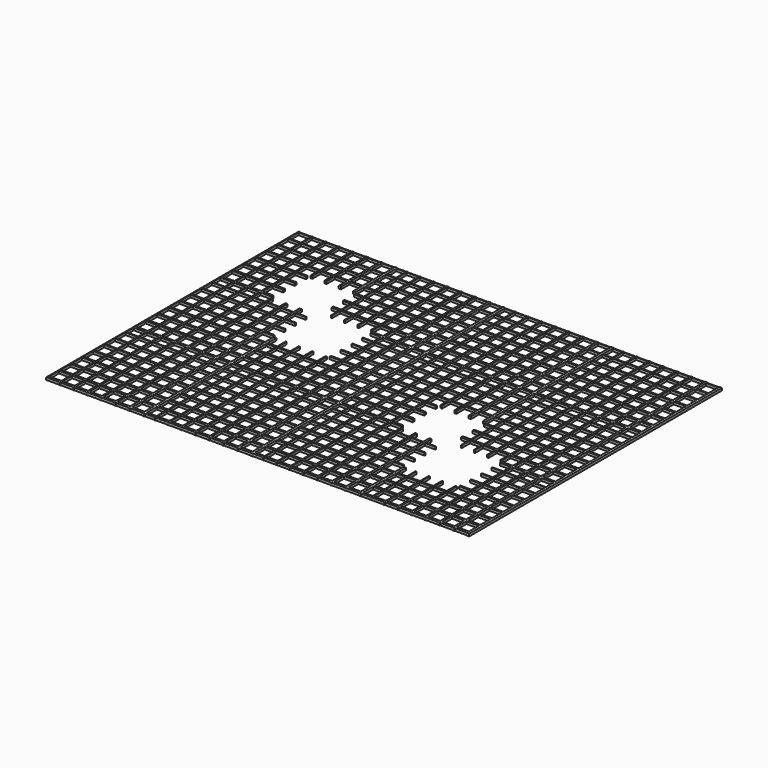
from build123d import *

# Parameters (mm, degrees)
F0_W     = 0.7
F0_H     = 260
F0_W_2   = 0.9
F0_W_3   = 1.1
F0_W_4   = 1.3
F0_W_5   = 1.5
F0_W_6   = 1.7
F0_W_7   = 1.9
F0_W_8   = 2.1
F1_DEPTH = 2
F2_W     = 347.386362
F2_H     = 0.7
F2_H_2   = 0.9
F2_H_3   = 1.1
F2_H_4   = 1.3
F2_H_5   = 1.5
F2_H_6   = 1.7
F2_H_7   = 1.9
F2_H_8   = 2.1
F3_DEPTH = 2
F5_DEPTH = 25


with BuildPart() as f1:
    # F0 (on Top) → F1 (new body)
    with BuildSketch(Plane.XY):
        with Locations((-169.090858, 6.351095)):
            Rectangle(F0_W, F0_H)
        with Locations((-158.290858, 6.351095)):
            Rectangle(F0_W_2, F0_H)
        with Locations((-147.290858, 6.351095)):
            Rectangle(F0_W_3, F0_H)
        with Locations((-136.090858, 6.351095)):
            Rectangle(F0_W_4, F0_H)
        with Locations((-124.690858, 6.351095)):
            Rectangle(F0_W_5, F0_H)
        with Locations((-113.090858, 6.351095)):
            Rectangle(F0_W_6, F0_H)
        with Locations((-101.290858, 6.351095)):
            Rectangle(F0_W_7, F0_H)
        with Locations((-89.290858, 6.351095)):
            Rectangle(F0_W_8, F0_H)
        with Locations((-69.290858, 6.351095)):
            Rectangle(F0_W_2, F0_H)
        with Locations((-12.290858, 6.351095)):
            Rectangle(F0_W_7, F0_H)
        with Locations((-58.290858, 6.351095)):
            Rectangle(F0_W_3, F0_H)
        with Locations((-80.090858, 6.351095)):
            Rectangle(F0_W, F0_H)
        with Locations((-0.290858, 6.351095)):
            Rectangle(F0_W_8, F0_H)
        with Locations((-24.090858, 6.351095)):
            Rectangle(F0_W_6, F0_H)
        with Locations((-35.690858, 6.351095)):
            Rectangle(F0_W_5, F0_H)
        with Locations((-47.090858, 6.351095)):
            Rectangle(F0_W_4, F0_H)
        with Locations((19.709142, 6.351095)):
            Rectangle(F0_W_2, F0_H)
        with Locations((76.709142, 6.351095)):
            Rectangle(F0_W_7, F0_H)
        with Locations((30.709142, 6.351095)):
            Rectangle(F0_W_3, F0_H)
        with Locations((8.909142, 6.351095)):
            Rectangle(F0_W, F0_H)
        with Locations((88.709142, 6.351095)):
            Rectangle(F0_W_8, F0_H)
        with Locations((64.909142, 6.351095)):
            Rectangle(F0_W_6, F0_H)
        with Locations((53.309142, 6.351095)):
            Rectangle(F0_W_5, F0_H)
        with Locations((41.909142, 6.351095)):
            Rectangle(F0_W_4, F0_H)
        with Locations((108.709142, 6.351095)):
            Rectangle(F0_W_2, F0_H)
        with Locations((165.709142, 6.351095)):
            Rectangle(F0_W_7, F0_H)
        with Locations((119.709142, 6.351095)):
            Rectangle(F0_W_3, F0_H)
        with Locations((97.909142, 6.351095)):
            Rectangle(F0_W, F0_H)
        with Locations((177.709142, 6.351095)):
            Rectangle(F0_W_8, F0_H)
        with Locations((153.909142, 6.351095)):
            Rectangle(F0_W_6, F0_H)
        with Locations((142.309142, 6.351095)):
            Rectangle(F0_W_5, F0_H)
        with Locations((130.909142, 6.351095)):
            Rectangle(F0_W_4, F0_H)
    extrude(amount=F1_DEPTH)

    # F2 (on Top) → F3 (join)
    with BuildSketch(Plane.XY):
        with Locations((4.597864, 135.510106)):
            Rectangle(F2_W, F2_H)
        with Locations((4.597864, 124.710106)):
            Rectangle(F2_W, F2_H_2)
        with Locations((4.597864, 113.710106)):
            Rectangle(F2_W, F2_H_3)
        with Locations((4.597864, 102.510106)):
            Rectangle(F2_W, F2_H_4)
        with Locations((4.597864, 91.110106)):
            Rectangle(F2_W, F2_H_5)
        with Locations((4.597864, 79.510106)):
            Rectangle(F2_W, F2_H_6)
        with Locations((4.597864, 67.710106)):
            Rectangle(F2_W, F2_H_7)
        with Locations((4.597864, 55.710106)):
            Rectangle(F2_W, F2_H_8)
        with Locations((4.597864, 35.710106)):
            Rectangle(F2_W, F2_H_2)
        with Locations((4.597864, -21.289894)):
            Rectangle(F2_W, F2_H_7)
        with Locations((4.597864, 24.710106)):
            Rectangle(F2_W, F2_H_3)
        with Locations((4.597864, 46.510106)):
            Rectangle(F2_W, F2_H)
        with Locations((4.597864, -33.289894)):
            Rectangle(F2_W, F2_H_8)
        with Locations((4.597864, -9.489894)):
            Rectangle(F2_W, F2_H_6)
        with Locations((4.597864, 2.110106)):
            Rectangle(F2_W, F2_H_5)
        with Locations((4.597864, 13.510106)):
            Rectangle(F2_W, F2_H_4)
        with Locations((4.597864, -53.289894)):
            Rectangle(F2_W, F2_H_2)
        with Locations((4.597864, -110.289894)):
            Rectangle(F2_W, F2_H_7)
        with Locations((4.597864, -64.289894)):
            Rectangle(F2_W, F2_H_3)
        with Locations((4.597864, -42.489894)):
            Rectangle(F2_W, F2_H)
        with Locations((4.597864, -122.289894)):
            Rectangle(F2_W, F2_H_8)
        with Locations((4.597864, -98.489894)):
            Rectangle(F2_W, F2_H_6)
        with Locations((4.597864, -86.889894)):
            Rectangle(F2_W, F2_H_5)
        with Locations((4.597864, -75.489894)):
            Rectangle(F2_W, F2_H_4)
    extrude(amount=F3_DEPTH)

    # F4 (on Top) → F5 (cut)
    with BuildSketch(Plane.XY):
        Polygon((-87.044187, 93.347527), (-126.64704, 93.347527), (-126.64704, 53.095445), (-91.58878, 53.095445), (-91.58878, 11.742193), (-45.231022, 11.742193), (-45.231022, 58.289263), (-87.044187, 58.289263), align=None)
        Polygon((90.745758, 4.399575), (51.142905, 4.399575), (51.142905, -35.852507), (86.201165, -35.852507), (86.201165, -77.205759), (132.558923, -77.205759), (132.558923, -30.658688), (90.745758, -30.658688), align=None)
    extrude(amount=F5_DEPTH, mode=Mode.SUBTRACT)


solid = f1.part
